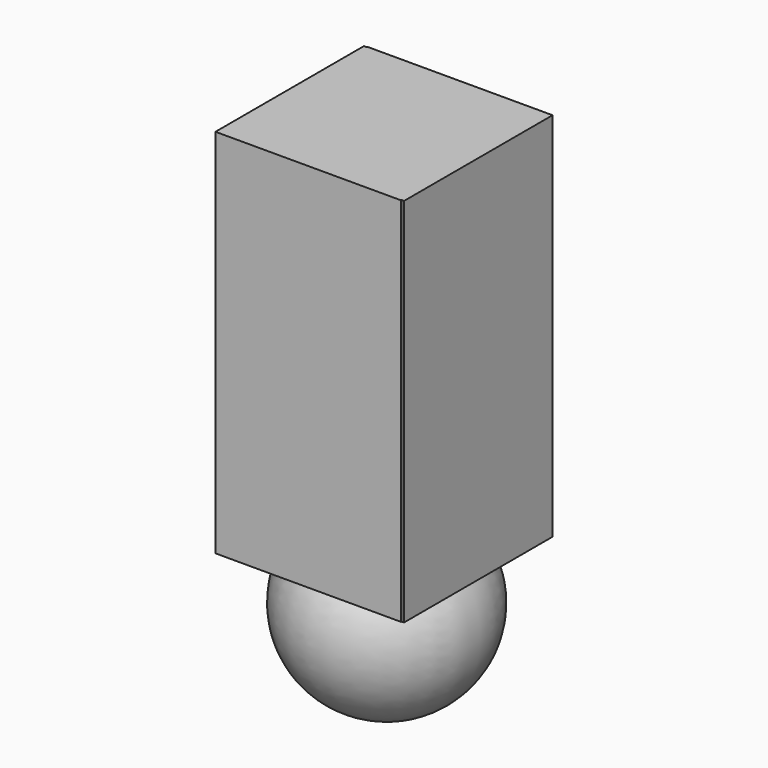
from build123d import *

# Parameters (mm, degrees)
F2_W     = 38.1
F2_H     = 38.1
F3_DEPTH = 38.1
F4_W     = 38.1
F4_H     = 38.1
F5_DEPTH = 38.1
F6_DEPTH = 38.1


with BuildPart() as f1:
    # F0 (on Front) → F1 (revolve)
    with BuildSketch(Plane.XZ):
        with BuildLine():
            ThreePointArc((-38.412295, -29.251639), (-19.228771, -10.201639), (-38.412295, 8.848361))
            Line((-38.412295, 8.848361), (-38.412295, -29.251639))
        make_face()
    revolve(axis=Axis((-38.412295, 0, -10.201639), (0, 0, -1)))

    # F2 (on Top) → F3 (join)
    with BuildSketch(Plane.XY):
        with Locations((-39.272306, 0)):
            Rectangle(F2_W, F2_H)
    extrude(amount=F3_DEPTH)

    # F4 (on Top) → F5 (join)
    with BuildSketch(Plane.XY):
        with Locations((-38.76623, 0.147158)):
            Rectangle(F4_W, F4_H)
    extrude(amount=F5_DEPTH)

    # F5_face (on face) → F6 (join)
    with BuildSketch(Plane(origin=(-39.019268, 0.073579, 38.1), x_dir=(1, 0, 0), z_dir=(0, 0, 1))):
        Polygon((19.303038, 19.123579), (-18.796962, 19.123579), (-18.796962, 18.976421), (-19.303038, 18.976421), (-19.303038, -19.123579), (18.796962, -19.123579), (18.796962, -18.976421), (19.303038, -18.976421), align=None)
    extrude(amount=F6_DEPTH)


solid = f1.part
